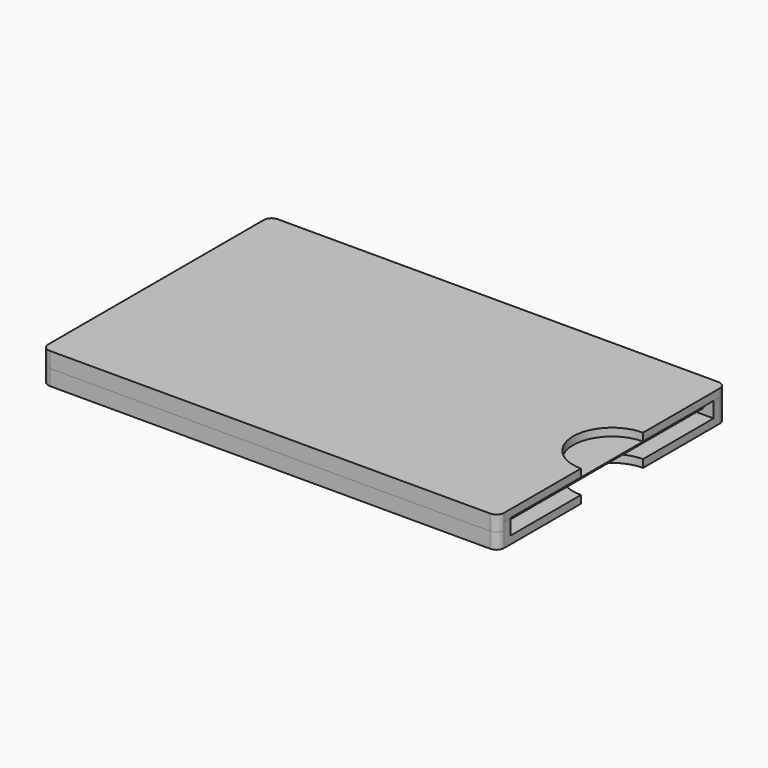
from build123d import *

# Parameters (mm, degrees)
F0_W     = 88.9
F0_H     = 50.8
F2_DEPTH = 0.254
F3_DEPTH = 3.175
F4_DEPTH = 1.5875
F5_DEPTH = 1.5875
F6_DEPTH = 3.175
F7_DEPTH = 1.5875


with BuildPart() as f2:
    # F0 (on Top) → F2 (new body)
    with BuildSketch(Plane.XY):
        Rectangle(F0_W, F0_H)
    extrude(amount=F2_DEPTH)


with BuildPart() as f3:
    # F1 (on Top) → F3 (new body)
    with BuildSketch(Plane.XY):
        Polygon((-44.05376, 25.9715), (46.0375, 25.9715), (46.0375, 27.559), (-45.64126, 27.559), (-45.64126, -27.559), (46.0375, -27.559), (46.0375, -25.9715), (-44.05376, -25.9715), align=None)
        with BuildLine():
            Line((46.0375, 7.9375), (46.0375, 25.9715))
            Line((46.0375, 25.9715), (-44.05376, 25.9715))
            Line((-44.05376, 25.9715), (-44.05376, -25.9715))
            Line((-44.05376, -25.9715), (46.0375, -25.9715))
            Line((46.0375, -25.9715), (46.0375, -7.9375))
            ThreePointArc((46.0375, -7.9375), (38.1, 0), (46.0375, 7.9375))
        make_face()
        with BuildLine():
            Line((-45.64126, 27.559), (46.0375, 27.559))
            ThreePointArc((46.0375, 27.559), (45.5725320151, 28.6815320151), (44.45, 29.1465))
            Line((44.45, 29.1465), (-45.64126, 29.1465))
            ThreePointArc((-45.64126, 29.1465), (-46.7637920151, 28.6815320151), (-47.22876, 27.559))
            Line((-47.22876, 27.559), (-47.22876, -27.559))
            ThreePointArc((-47.22876, -27.559), (-46.7637920151, -28.6815320151), (-45.64126, -29.1465))
            Line((-45.64126, -29.1465), (44.45, -29.1465))
            ThreePointArc((44.45, -29.1465), (45.5725320151, -28.6815320151), (46.0375, -27.559))
            Line((46.0375, -27.559), (-45.64126, -27.559))
            Line((-45.64126, -27.559), (-45.64126, 27.559))
        make_face()
    extrude(amount=-F3_DEPTH)

    # F1 (on Top) → F4 (cut)
    with BuildSketch(Plane.XY):
        with BuildLine():
            Line((46.0375, 7.9375), (46.0375, 25.9715))
            Line((46.0375, 25.9715), (-44.05376, 25.9715))
            Line((-44.05376, 25.9715), (-44.05376, -25.9715))
            Line((-44.05376, -25.9715), (46.0375, -25.9715))
            Line((46.0375, -25.9715), (46.0375, -7.9375))
            ThreePointArc((46.0375, -7.9375), (38.1, 0), (46.0375, 7.9375))
        make_face()
    extrude(amount=-F4_DEPTH, mode=Mode.SUBTRACT)

    # F1 (on Top) → F5 (join)
    with BuildSketch(Plane.XY):
        Polygon((-44.05376, 25.9715), (46.0375, 25.9715), (46.0375, 27.559), (-45.64126, 27.559), (-45.64126, -27.559), (46.0375, -27.559), (46.0375, -25.9715), (-44.05376, -25.9715), align=None)
    extrude(amount=F5_DEPTH)


with BuildPart() as f6:
    # F1 (on Top) → F6 (new body)
    with BuildSketch(Plane.XY):
        with BuildLine():
            Line((46.0375, 7.9375), (46.0375, 25.9715))
            Line((46.0375, 25.9715), (-44.05376, 25.9715))
            Line((-44.05376, 25.9715), (-44.05376, -25.9715))
            Line((-44.05376, -25.9715), (46.0375, -25.9715))
            Line((46.0375, -25.9715), (46.0375, -7.9375))
            ThreePointArc((46.0375, -7.9375), (38.1, 0), (46.0375, 7.9375))
        make_face()
        Polygon((-44.05376, 25.9715), (46.0375, 25.9715), (46.0375, 27.559), (-45.64126, 27.559), (-45.64126, -27.559), (46.0375, -27.559), (46.0375, -25.9715), (-44.05376, -25.9715), align=None)
        with BuildLine():
            Line((-45.64126, 27.559), (46.0375, 27.559))
            ThreePointArc((46.0375, 27.559), (45.5725320151, 28.6815320151), (44.45, 29.1465))
            Line((44.45, 29.1465), (-45.64126, 29.1465))
            ThreePointArc((-45.64126, 29.1465), (-46.7637920151, 28.6815320151), (-47.22876, 27.559))
            Line((-47.22876, 27.559), (-47.22876, -27.559))
            ThreePointArc((-47.22876, -27.559), (-46.7637920151, -28.6815320151), (-45.64126, -29.1465))
            Line((-45.64126, -29.1465), (44.45, -29.1465))
            ThreePointArc((44.45, -29.1465), (45.5725320151, -28.6815320151), (46.0375, -27.559))
            Line((46.0375, -27.559), (-45.64126, -27.559))
            Line((-45.64126, -27.559), (-45.64126, 27.559))
        make_face()
    extrude(amount=F6_DEPTH)

    # F1 (on Top) → F7 (cut)
    with BuildSketch(Plane.XY):
        with BuildLine():
            Line((46.0375, 7.9375), (46.0375, 25.9715))
            Line((46.0375, 25.9715), (-44.05376, 25.9715))
            Line((-44.05376, 25.9715), (-44.05376, -25.9715))
            Line((-44.05376, -25.9715), (46.0375, -25.9715))
            Line((46.0375, -25.9715), (46.0375, -7.9375))
            ThreePointArc((46.0375, -7.9375), (38.1, 0), (46.0375, 7.9375))
        make_face()
        Polygon((-44.05376, 25.9715), (46.0375, 25.9715), (46.0375, 27.559), (-45.64126, 27.559), (-45.64126, -27.559), (46.0375, -27.559), (46.0375, -25.9715), (-44.05376, -25.9715), align=None)
    extrude(amount=F7_DEPTH, mode=Mode.SUBTRACT)


solid = Compound([f2.part, f3.part, f6.part])
